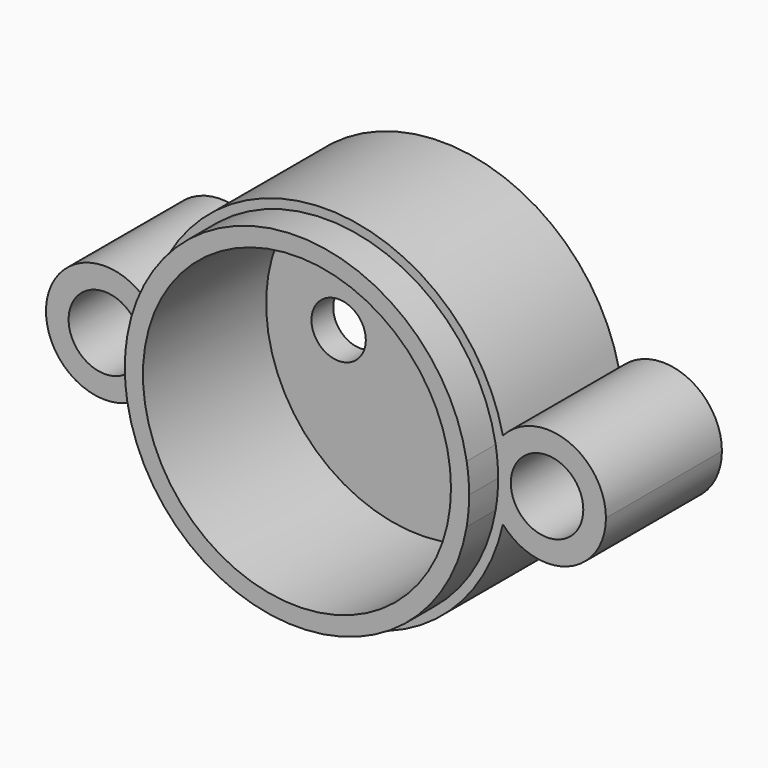
from build123d import *

# Parameters (mm, degrees)
F0_R     = 8.5
F1_DEPTH = 10
F0_R_2   = 2
F2_DEPTH = 8
F0_R_3   = 1.5
F3_DEPTH = 1.5
F4_DEPTH = 10


with BuildPart() as f1:
    # F0 (on Front) → F1 (new body)
    with BuildSketch(Plane.XZ):
        with BuildLine():
            ThreePointArc((9.3658811475, -1.5906823473), (8.95, 0), (9.3658811475, 1.5906823473))
            ThreePointArc((9.3658811475, 1.5906823473), (0, 9.5), (-9.3658811475, 1.5906823473))
            ThreePointArc((-9.3658811475, 1.5906823473), (-9.0556887662, 0.8220747319), (-8.95, 0))
            ThreePointArc((-8.95, 0), (-9.0556887662, -0.8220747319), (-9.3658811475, -1.5906823473))
            ThreePointArc((-9.3658811475, -1.5906823473), (0, -9.5), (9.3658811475, -1.5906823473))
        make_face()
        Circle(F0_R, mode=Mode.SUBTRACT)
    extrude(amount=F1_DEPTH)

    # F0 (on Front) → F2 (join)
    with BuildSketch(Plane.XZ):
        with BuildLine():
            ThreePointArc((9.7654713115, -2.1530374044), (9.941194926, -1.082886625), (10, 0))
            ThreePointArc((10, 0), (9.941194926, 1.082886625), (9.7654713115, 2.1530374044))
            ThreePointArc((9.7654713115, 2.1530374044), (9.550712826, 1.8824923558), (9.3658811475, 1.5906823473))
            ThreePointArc((9.3658811475, 1.5906823473), (9.4664109065, 0.7981632347), (9.5, 0))
            ThreePointArc((9.5, 0), (9.4664109065, -0.7981632347), (9.3658811475, -1.5906823473))
            ThreePointArc((9.3658811475, -1.5906823473), (9.550712826, -1.8824923558), (9.7654713115, -2.1530374044))
        make_face()
        with BuildLine():
            ThreePointArc((9.7654713115, 2.1530374044), (9.941194926, 1.082886625), (10, 0))
            ThreePointArc((10, 0), (9.941194926, -1.082886625), (9.7654713115, -2.1530374044))
            ThreePointArc((9.7654713115, -2.1530374044), (13.3511476366, -3.0393024066), (15.45, 0))
            ThreePointArc((15.45, 0), (13.3511476366, 3.0393024066), (9.7654713115, 2.1530374044))
        make_face()
        with Locations((12.2, 0)):
            Circle(F0_R_2, mode=Mode.SUBTRACT)
        with BuildLine():
            ThreePointArc((9.3658811475, 1.5906823473), (9.550712826, 1.8824923558), (9.7654713115, 2.1530374044))
            ThreePointArc((9.7654713115, 2.1530374044), (0, 10), (-9.7654713115, 2.1530374044))
            ThreePointArc((-9.7654713115, 2.1530374044), (-9.550712826, 1.8824923558), (-9.3658811475, 1.5906823473))
            ThreePointArc((-9.3658811475, 1.5906823473), (0, 9.5), (9.3658811475, 1.5906823473))
        make_face()
        with BuildLine():
            ThreePointArc((-9.7654713115, -2.1530374044), (0, -10), (9.7654713115, -2.1530374044))
            ThreePointArc((9.7654713115, -2.1530374044), (9.550712826, -1.8824923558), (9.3658811475, -1.5906823473))
            ThreePointArc((9.3658811475, -1.5906823473), (0, -9.5), (-9.3658811475, -1.5906823473))
            ThreePointArc((-9.3658811475, -1.5906823473), (-9.550712826, -1.8824923558), (-9.7654713115, -2.1530374044))
        make_face()
        with BuildLine():
            ThreePointArc((-9.3658811475, 1.5906823473), (-9.550712826, 1.8824923558), (-9.7654713115, 2.1530374044))
            ThreePointArc((-9.7654713115, 2.1530374044), (-10, 0), (-9.7654713115, -2.1530374044))
            ThreePointArc((-9.7654713115, -2.1530374044), (-9.550712826, -1.8824923558), (-9.3658811475, -1.5906823473))
            ThreePointArc((-9.3658811475, -1.5906823473), (-9.5, 0), (-9.3658811475, 1.5906823473))
        make_face()
        with BuildLine():
            ThreePointArc((-9.7654713115, -2.1530374044), (-10, 0), (-9.7654713115, 2.1530374044))
            ThreePointArc((-9.7654713115, 2.1530374044), (-15.45, 0), (-9.7654713115, -2.1530374044))
        make_face()
        with Locations((-12.2, 0)):
            Circle(F0_R_2, mode=Mode.SUBTRACT)
    extrude(amount=F2_DEPTH)

    # F0 (on Front) → F3 (join)
    with BuildSketch(Plane.XZ):
        Circle(F0_R)
        with Locations((-4.5, 0)):
            Circle(F0_R_3, mode=Mode.SUBTRACT)
        with Locations((4.5, 0)):
            Circle(F0_R_3, mode=Mode.SUBTRACT)
    extrude(amount=F3_DEPTH)

    # F0 (on Front) → F4 (join)
    with BuildSketch(Plane.XZ):
        with BuildLine():
            ThreePointArc((9.5, 0), (9.4664109065, 0.7981632347), (9.3658811475, 1.5906823473))
            ThreePointArc((9.3658811475, 1.5906823473), (8.95, 0), (9.3658811475, -1.5906823473))
            ThreePointArc((9.3658811475, -1.5906823473), (9.4664109065, -0.7981632347), (9.5, 0))
        make_face()
        with BuildLine():
            ThreePointArc((-8.95, 0), (-9.0556887662, 0.8220747319), (-9.3658811475, 1.5906823473))
            ThreePointArc((-9.3658811475, 1.5906823473), (-9.5, 0), (-9.3658811475, -1.5906823473))
            ThreePointArc((-9.3658811475, -1.5906823473), (-9.0556887662, -0.8220747319), (-8.95, 0))
        make_face()
    extrude(amount=F4_DEPTH)


solid = f1.part
